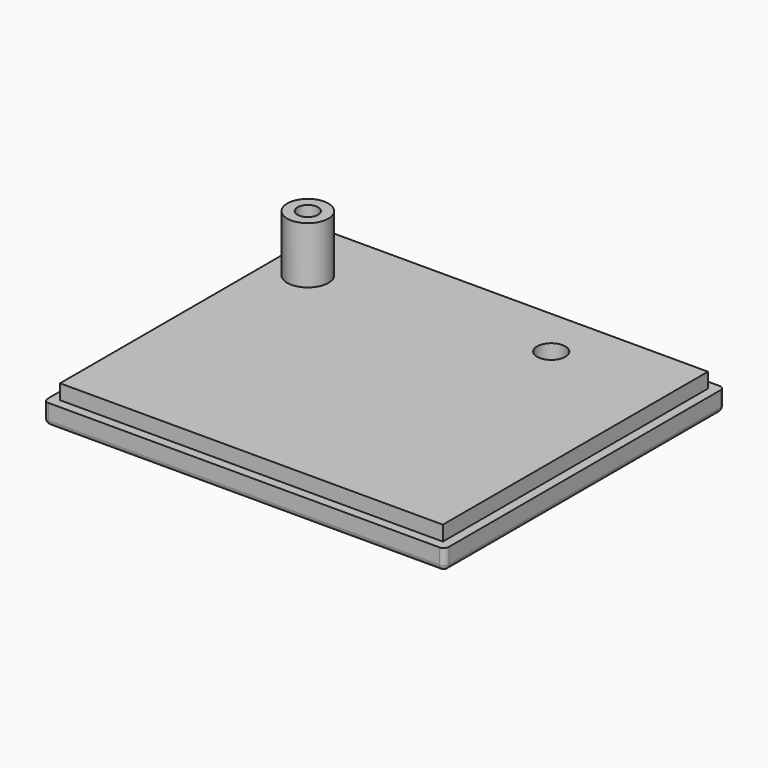
from build123d import *

# Parameters (mm, degrees)
SKETCH_W        = 78
SKETCH_H        = 68
PAD_DEPTH       = 4
SKETCH001_W     = 74.4
SKETCH001_H     = 64.4
PAD001_DEPTH    = 2.9
SKETCH002_R     = 4
PAD002_DEPTH    = 11
SKETCH003_R     = 2
POCKET_DEPTH    = 17.901
SKETCH004_R     = 2.75
POCKET001_DEPTH = 6.901
FILLET_R        = 1


with BuildPart() as part:
    # Sketch → Pad (new body)
    with BuildSketch(Plane.XY):
        with Locations((39, 34)):
            Rectangle(SKETCH_W, SKETCH_H)
    extrude(amount=PAD_DEPTH)

    # Sketch001 (on Face6 of Pad) → Pad001 (join)
    with BuildSketch(Plane.XY.offset(4)):
        with Locations((39, 34)):
            Rectangle(SKETCH001_W, SKETCH001_H)
    extrude(amount=PAD001_DEPTH)

    # Sketch002 (on Face11 of Pad001) → Pad002 (join)
    with BuildSketch(Plane.XY.offset(6.9)):
        with Locations((9, 53)):
            Circle(SKETCH002_R)
    extrude(amount=PAD002_DEPTH)

    # Sketch003 (on Face13 of Pad002) → Pocket (cut, through all)
    with BuildSketch(Plane.XY.offset(17.9)):
        with Locations((9, 53)):
            Circle(SKETCH003_R)
    extrude(amount=-POCKET_DEPTH, mode=Mode.SUBTRACT)

    # Sketch004 (on Face13 of Pocket) → Pocket001 (cut, through all)
    with BuildSketch(Plane.XY.offset(6.9)):
        with Locations((53.5, 56.5)):
            Circle(SKETCH004_R)
    extrude(amount=-POCKET001_DEPTH, mode=Mode.SUBTRACT)

    # Fillet
    fillet_edges = [part.edges().sort_by_distance(p)[0] for p in [
        (39, 68, 0),
        (78, 34, 0),
        (78, 68, 2),
        (0, 68, 2),
        (39, 0, 0),
        (0, 34, 0),
        (78, 0, 2),
        (0, 0, 2),
    ]]
    fillet(fillet_edges, radius=FILLET_R)


solid = part.part
